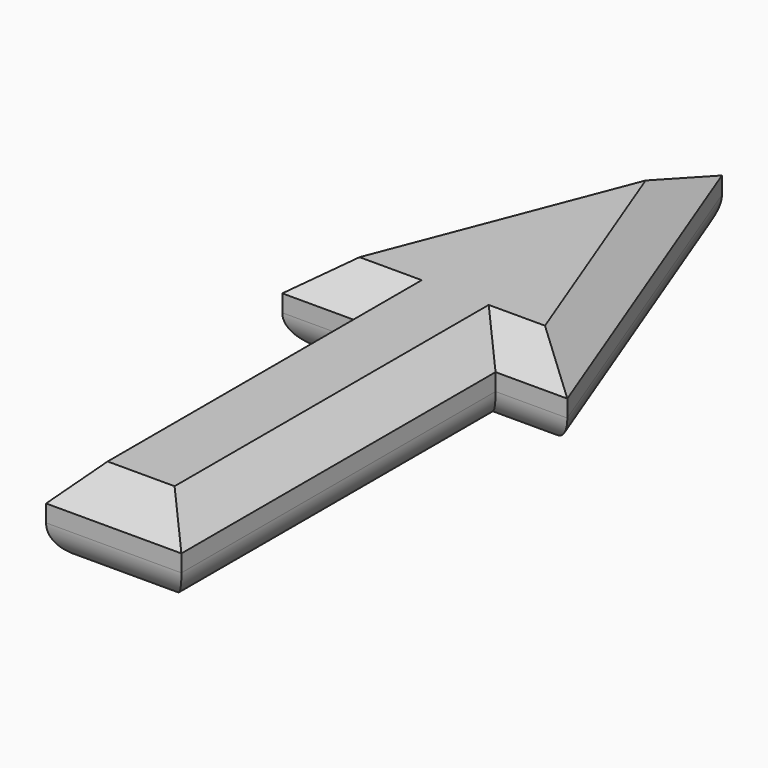
from build123d import *

# Parameters (mm, degrees)
F0_W     = 20.116801
F0_H     = 58.369201
F1_DEPTH = 12.7
F2_SIZE  = 5.08
F3_R     = 5.08


with BuildPart() as f1:
    # F0 (on Top) → F1 (new body)
    with BuildSketch(Plane.XY):
        Polygon((21.031201, 0), (0, 55.016398), (-21.336, 0), (-9.753601, 0), (10.3632, 0), align=None)
        with Locations((0.304799, -29.1846)):
            Rectangle(F0_W, F0_H)
    extrude(amount=F1_DEPTH)

    # F2
    f2_edges = [f1.edges().sort_by_distance(p)[0] for p in [
        (10.5156, 27.508199, 12.7),
        (-10.668, 27.508199, 12.7),
        (-15.544801, 0, 12.7),
        (-9.753601, -29.1846, 12.7),
        (0.3048, -58.369201, 12.7),
        (10.3632, -29.1846, 12.7),
        (15.6972, 0, 12.7),
    ]]
    chamfer(f2_edges, length=F2_SIZE)

    # F3
    f3_edges = [f1.edges().sort_by_distance(p)[0] for p in [
        (10.5156, 27.508199, 0),
        (-10.668, 27.508199, 0),
        (-15.544801, 0, 0),
        (-9.753601, -29.1846, 0),
        (0.3048, -58.369201, 0),
        (10.3632, -29.1846, 0),
        (15.6972, 0, 0),
    ]]
    fillet(f3_edges, radius=F3_R)


solid = f1.part
